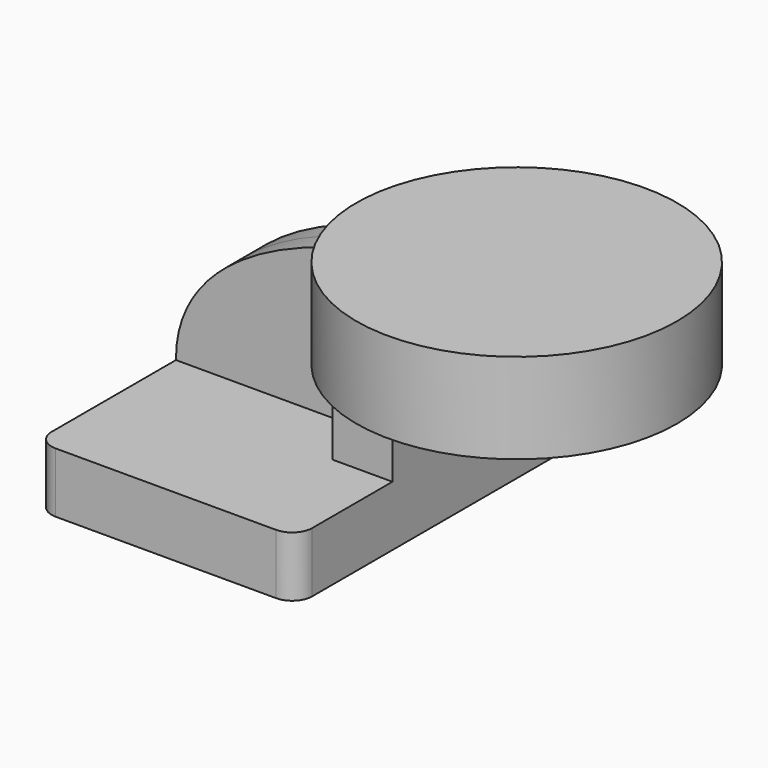
from build123d import *

# Parameters (mm, degrees)
F1_DEPTH = 63.5
F2_DEPTH = 25.4
F3_DEPTH = 7.9375
F5_R     = 6.35


with BuildPart() as f1:
    # F0 (on Front) → F1 (new body, symmetric)
    with BuildSketch(Plane.XZ):
        Polygon((-41.275, 9.525), (-41.275, -9.525), (41.275, -9.525), (41.275, 9.525), (22.225, 9.525), align=None)
    extrude(amount=F1_DEPTH, both=True)

    # F0 (on Front) → F2 (join, symmetric)
    with BuildSketch(Plane.XZ):
        with BuildLine():
            Line((22.225, 9.525), (41.275, 9.525))
            Line((41.275, 9.525), (41.275, 31.257566))
            ThreePointArc((41.275, 31.257566), (42.593834, 37.59268), (46.33121, 42.8752))
            Line((46.33121, 42.8752), (60.325, 42.8752))
            Line((60.325, 42.8752), (60.325, 61.9252))
            Line((60.325, 61.9252), (40.43917, 61.9252))
            ThreePointArc((40.43917, 61.9252), (27.121835, 49.091941), (22.225, 31.257566))
            Line((22.225, 31.257566), (22.225, 9.525))
        make_face()
    extrude(amount=F2_DEPTH, both=True)

    # F0 (on Front) → F3 (join, symmetric)
    with BuildSketch(Plane.XZ):
        with BuildLine():
            add(Edge.make_bspline(
                [(-41.275, 9.525), (-41.567614, 43.979483), (5.612445, 61.028755), (40.43917, 61.9252)],
                knots=[0, 0, 0, 0, 97.072068, 97.072068, 97.072068, 97.072068], degree=3))
            Line((-41.275, 9.525), (22.225, 9.525))
            Line((22.225, 9.525), (22.225, 31.257566))
            ThreePointArc((22.225, 31.257566), (27.121835, 49.091941), (40.43917, 61.9252))
        make_face()
    extrude(amount=F3_DEPTH, both=True)

    # F0 (on Front) → F4 (revolve)
    with BuildSketch(Plane.XZ):
        Polygon((60.325, 66.675), (60.325, 61.9252), (77.771246, 61.9252), (77.771246, 42.8752), (60.325, 42.8752), (60.325, 38.1), (111.125, 38.1), (111.125, 66.675), align=None)
    revolve(axis=Axis((60.325, 0, 52.3875), (0, 0, 1)))

    # F5
    f5_edges = [f1.edges().sort_by_distance(p)[0] for p in [
        (-41.275, -63.5, 0),
        (41.275, -63.5, 0),
        (41.275, 63.5, 0),
        (-41.275, 63.5, 0),
    ]]
    fillet(f5_edges, radius=F5_R)


solid = f1.part
